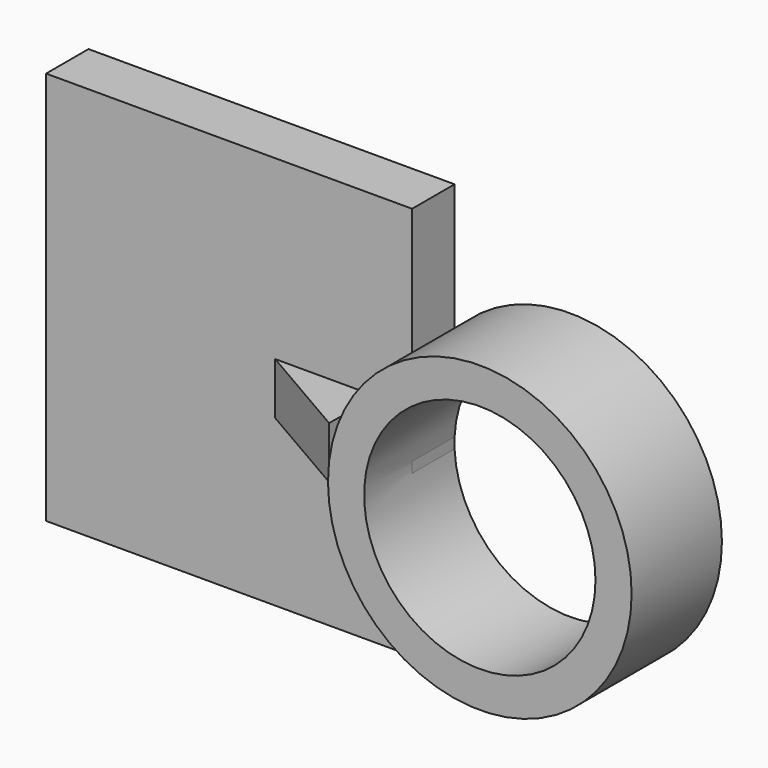
from build123d import *

# Parameters (mm, degrees)
F0_R     = 34.162118
F0_R_2   = 26.03014
F1_DEPTH = 25.4
F2_W     = 82.366947
F2_H     = 88.6334
F3_DEPTH = 11.938
F5_DEPTH = 11.684


with BuildPart() as f1:
    # F0 (on Front) → F1 (new body)
    with BuildSketch(Plane.XZ):
        Circle(F0_R)
        Circle(F0_R_2, mode=Mode.SUBTRACT)
    extrude(amount=F1_DEPTH)

    # F2 (on Front) → F3 (join)
    with BuildSketch(Plane.XZ):
        with Locations((-67.186301, 6.906649)):
            Rectangle(F2_W, F2_H)
    extrude(amount=F3_DEPTH)

    # F4 (on Top) → F5 (join)
    with BuildSketch(Plane.XY):
        Polygon((-56.507535, -12.315094), (-33.903457, -25.42158), (-33.660881, -12.315094), align=None)
    extrude(amount=F5_DEPTH)


solid = f1.part
